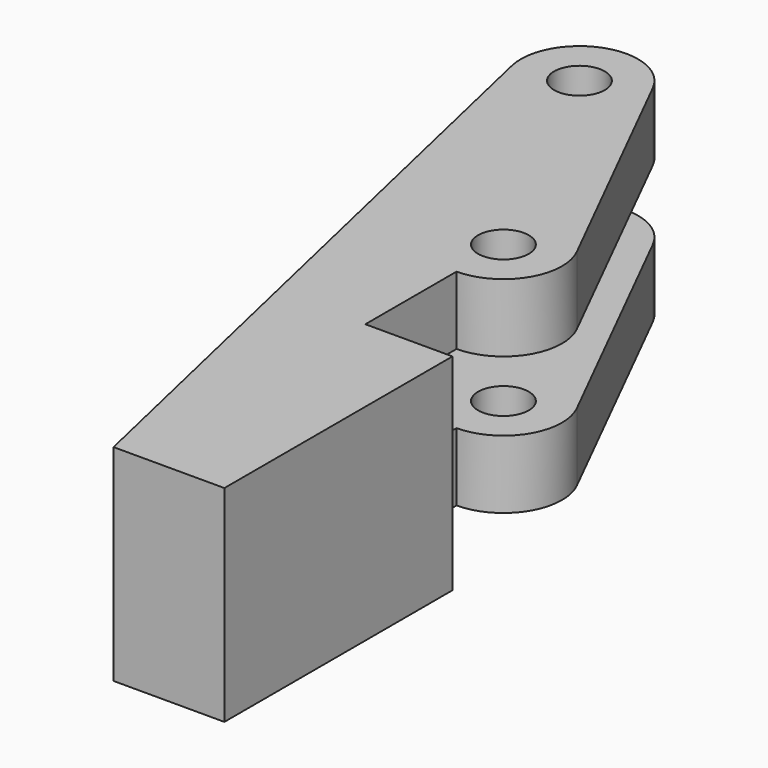
from build123d import *

# Parameters (mm, degrees)
CYLINDER005_R     = 1.6
CYLINDER005_DEPTH = 30
PAD001_DEPTH      = 13
SKETCH001_W       = 28
SKETCH001_H       = 4.4
POCKET002_DEPTH   = 7.4


with BuildPart() as finger_drill_master:
    # Cylinder005 → Cylinder005 (new body)
    with BuildSketch(Plane.XY.offset(-8)):
        Circle(CYLINDER005_R)
    extrude(amount=CYLINDER005_DEPTH)


with BuildPart() as clone001:
    # Clone001 base: copy of finger-drill-master
    add(finger_drill_master.part)


with BuildPart() as clone001_1:
    # Clone001 placement: moved
    add(clone001.part.moved(Location((-5.5, 28.9, 0))))


with BuildPart() as finger_drills:
    # Clone002 base: copy of finger-drill-master
    add(finger_drill_master.part)


with BuildPart() as finger_drills_1:
    # Clone002 placement: moved
    add(finger_drills.part.moved(Location((-13.5, 44.9, 0))))

    # Fusion011: union Clone001
    add(clone001_1.part)


with BuildPart() as clone_of_left_finger:
    # Sketch007 → Pad001 (new body)
    with BuildSketch(Plane.XY):
        with BuildLine():
            Line((0, 0), (0, 18))
            Line((0, 18), (-5.5, 18))
            Line((-5.5, 18), (-5.5, 25.2))
            ThreePointArc((-5.5, 25.2), (-2.3525883805, 26.9548007564), (-2.1906255667, 30.55470265))
            Line((-10.1906192745, 46.5546900658), (-2.1906255667, 30.55470265))
            ThreePointArc((-10.1906192745, 46.5546900658), (-14.7496924515, 48.3825664066), (-17.1063967324, 44.0730159565))
            Line((-17.1063967324, 44.0730159565), (-7, 0))
            Line((-7, 0), (0, 0))
        make_face()
    extrude(amount=PAD001_DEPTH)

    # Sketch001 → Pocket002 (cut)
    with BuildSketch(Plane(origin=(10.4693806066, 5.2346903033, 0), x_dir=(-0.4472135955, 0.894427191, 0), z_dir=(0.894427191, 0.4472135955, 0))):
        with Locations((37.2528992744, 6.5)):
            Rectangle(SKETCH001_W, SKETCH001_H)
    extrude(amount=-POCKET002_DEPTH, mode=Mode.SUBTRACT)

    # Cut012: cut finger-drills
    add(finger_drills_1.part, mode=Mode.SUBTRACT)


with BuildPart() as clone_of_left_finger_1:
    # Cut012 placement: moved
    add(clone_of_left_finger.part.moved(Location((0, -57, 0))))


with BuildPart() as clone_of_left_finger_2:
    # Clone003 placement: moved
    add(clone_of_left_finger_1.part.moved(Location((192.6034801236, 242.5662976869, 0))))


with BuildPart() as clone_of_left_finger_3:
    # Clone180 placement: moved
    add(clone_of_left_finger_2.part.moved(Location((-14.0004801236, -699.0002976869, 18.3))))


solid = clone_of_left_finger_3.part
